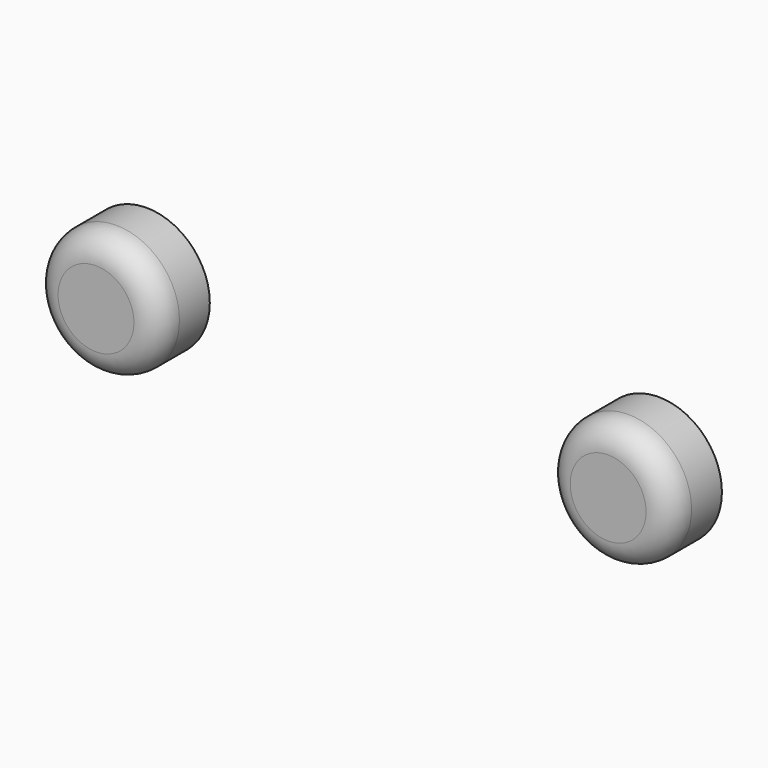
from build123d import *

# Parameters (mm, degrees)
F0_R     = 12.7
F1_DEPTH = 12.7
F2_R     = 5.08


with BuildPart() as f1:
    # F0 (on Front) → F1 (new body)
    with BuildSketch(Plane.XZ):
        with Locations((-51.440982, 0)):
            Circle(F0_R)
        with Locations((51.440982, 0)):
            Circle(F0_R)
    extrude(amount=F1_DEPTH)

    # F2
    f2_edges = [f1.edges().sort_by_distance(p)[0] for p in [
        (-64.140982, -12.7, 0),
        (38.740982, -12.7, 0),
    ]]
    fillet(f2_edges, radius=F2_R)


solid = f1.part
